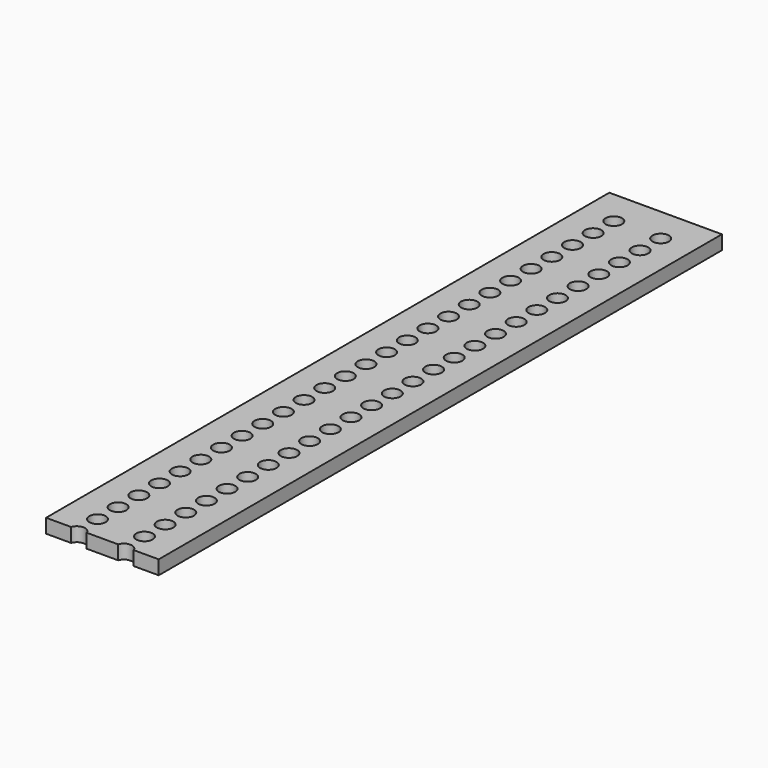
from build123d import *

# Parameters (mm, degrees)
F0_W     = 24
F0_H     = 3
F1_DEPTH = 150
F2_R     = 1.75
F3_DEPTH = 25


with BuildPart() as f1:
    # F0 (on Front) → F1 (new body)
    with BuildSketch(Plane.XZ):
        with Locations((12, -1.5)):
            Rectangle(F0_W, F0_H)
    extrude(amount=F1_DEPTH)

    # F2 (on face) → F3 (cut)
    with BuildSketch(Plane.XY):
        with Locations((7, -7.55)):
            Circle(F2_R)
        with Locations((17, -7.55)):
            Circle(F2_R)
        with Locations((7, -40.55)):
            Circle(F2_R)
        with Locations((7, -46.05)):
            Circle(F2_R)
        with Locations((17, -84.55)):
            Circle(F2_R)
        with Locations((17, -57.05)):
            Circle(F2_R)
        with Locations((17, -73.55)):
            Circle(F2_R)
        with Locations((17, -35.05)):
            Circle(F2_R)
        with Locations((17, -29.55)):
            Circle(F2_R)
        with Locations((17, -24.05)):
            Circle(F2_R)
        with Locations((17, -18.55)):
            Circle(F2_R)
        with Locations((17, -40.55)):
            Circle(F2_R)
        with Locations((17, -46.05)):
            Circle(F2_R)
        with Locations((17, -95.55)):
            Circle(F2_R)
        with Locations((17, -51.55)):
            Circle(F2_R)
        with Locations((17, -68.05)):
            Circle(F2_R)
        with Locations((17, -62.55)):
            Circle(F2_R)
        with Locations((17, -79.05)):
            Circle(F2_R)
        with Locations((7, -101.05)):
            Circle(F2_R)
        with Locations((7, -57.05)):
            Circle(F2_R)
        with Locations((7, -73.55)):
            Circle(F2_R)
        with Locations((7, -117.55)):
            Circle(F2_R)
        with Locations((7, -95.55)):
            Circle(F2_R)
        with Locations((7, -68.05)):
            Circle(F2_R)
        with Locations((7, -112.05)):
            Circle(F2_R)
        with Locations((7, -106.55)):
            Circle(F2_R)
        with Locations((7, -62.55)):
            Circle(F2_R)
        with Locations((7, -90.05)):
            Circle(F2_R)
        with Locations((7, -79.05)):
            Circle(F2_R)
        with Locations((7, -84.55)):
            Circle(F2_R)
        with Locations((17, -128.55)):
            Circle(F2_R)
        with Locations((17, -145.05)):
            Circle(F2_R)
        with Locations((17, -101.05)):
            Circle(F2_R)
        with Locations((17, -117.55)):
            Circle(F2_R)
        with Locations((17, -134.05)):
            Circle(F2_R)
        with Locations((17, -139.55)):
            Circle(F2_R)
        with Locations((17, -112.05)):
            Circle(F2_R)
        with Locations((17, -156.05)):
            Circle(F2_R)
        with BuildLine():
            Line((15.3386752274, -150), (18.6613247726, -150))
            ThreePointArc((18.6613247726, -150), (17, -148.8), (15.3386752274, -150))
        make_face()
        with BuildLine():
            ThreePointArc((15.3386752274, -150), (16.7214487049, -152.2776889697), (18.75, -150.55))
            ThreePointArc((18.75, -150.55), (18.7276889697, -150.2714487049), (18.6613247726, -150))
            Line((18.6613247726, -150), (15.3386752274, -150))
        make_face()
        with Locations((17, -106.55)):
            Circle(F2_R)
        with Locations((17, -123.05)):
            Circle(F2_R)
        with Locations((7, -145.05)):
            Circle(F2_R)
        with Locations((7, -139.55)):
            Circle(F2_R)
        with Locations((7, -156.05)):
            Circle(F2_R)
        with Locations((7, -134.05)):
            Circle(F2_R)
        with BuildLine():
            Line((5.3386752274, -150), (8.6613247726, -150))
            ThreePointArc((8.6613247726, -150), (7, -148.8), (5.3386752274, -150))
        make_face()
        with BuildLine():
            ThreePointArc((8.75, -150.55), (8.7276889697, -150.2714487049), (8.6613247726, -150))
            Line((8.6613247726, -150), (5.3386752274, -150))
            ThreePointArc((5.3386752274, -150), (6.7214487049, -152.2776889697), (8.75, -150.55))
        make_face()
        with Locations((7, -128.55)):
            Circle(F2_R)
        with Locations((7, -123.05)):
            Circle(F2_R)
        with Locations((17, -90.05)):
            Circle(F2_R)
        with Locations((7, -51.55)):
            Circle(F2_R)
        with Locations((17, -13.05)):
            Circle(F2_R)
        with Locations((7, -35.05)):
            Circle(F2_R)
        with Locations((7, -29.55)):
            Circle(F2_R)
        with Locations((7, -24.05)):
            Circle(F2_R)
        with Locations((7, -18.55)):
            Circle(F2_R)
        with Locations((7, -13.05)):
            Circle(F2_R)
    extrude(amount=-F3_DEPTH, mode=Mode.SUBTRACT)


solid = f1.part
